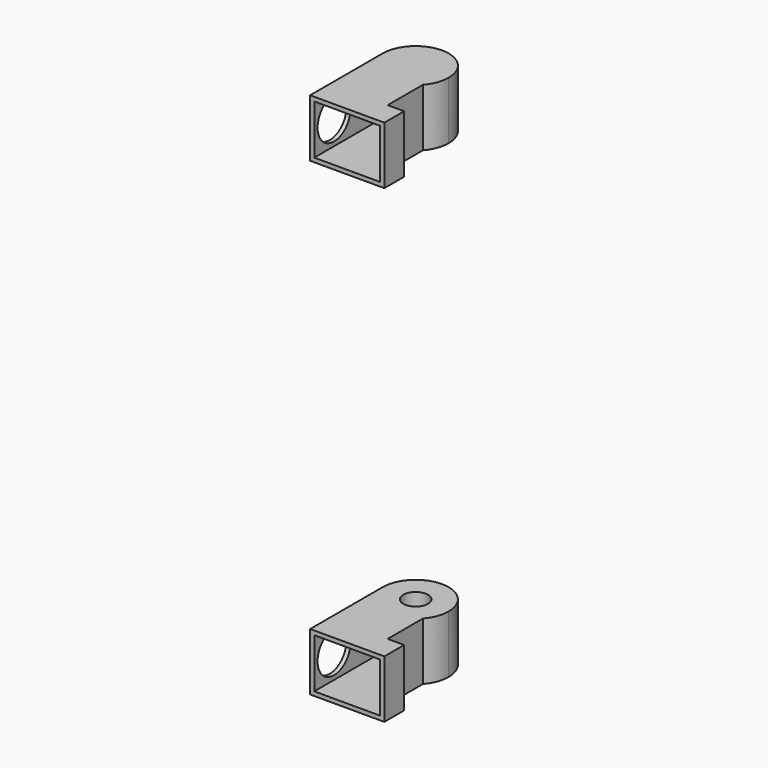
from build123d import *

# Parameters (mm, degrees)
F1_DEPTH = 7
F2_R     = 1.5
F3_DEPTH = 3
F4_T     = -0.5
F5_R     = 2.5
F6_DEPTH = 2


with BuildPart() as f1:
    # F0 (on Top) → F1 (new body)
    with BuildSketch(Plane.XY):
        with BuildLine():
            ThreePointArc((3, 5.3542486889), (-1.4142135624, 4.2583426132), (-4, 8))
            Line((-4, 8), (-4, -3))
            Line((-4, -3), (5, -3))
            Line((5, -3), (5, 0))
            Line((5, 0), (3, 0))
            Line((3, 0), (3, 5.3542486889))
        make_face()
        with BuildLine():
            ThreePointArc((4, 8), (0, 12), (-4, 8))
            ThreePointArc((-4, 8), (-1.4142135624, 4.2583426132), (3, 5.3542486889))
            ThreePointArc((3, 5.3542486889), (3.7416573868, 6.5857864376), (4, 8))
        make_face()
    extrude(amount=F1_DEPTH)

    # F2 (on face) → F3 (cut)
    with BuildSketch(Plane.XY.offset(7)):
        with Locations((0, 8)):
            Circle(F2_R)
    extrude(amount=-F3_DEPTH, mode=Mode.SUBTRACT)

    # F4
    f4_openings = [f1.faces().sort_by_distance(p)[0] for p in [
        (0.5, -3, 3.5),
    ]]
    offset(amount=F4_T, openings=f4_openings, kind=Kind.INTERSECTION)

    # F5 (on face) → F6 (cut)
    with BuildSketch(Plane(origin=(-4, 0, 0), x_dir=(0, -1, 0), z_dir=(-1, 0, 0))):
        with BuildLine():
            ThreePointArc((-8, 1), (-6.232233047, 1.732233047), (-5.5, 3.5))
            ThreePointArc((-5.5, 3.5), (-6.232233047, 5.267766953), (-8, 6))
            Line((-8, 6), (-8, 1))
        make_face()
        with Locations((0, 3.5)):
            Circle(F5_R)
        with BuildLine():
            Line((-8, 1), (-8, 6))
            ThreePointArc((-8, 6), (-10.5, 3.5), (-8, 1))
        make_face()
    extrude(amount=-F6_DEPTH, mode=Mode.SUBTRACT)


with BuildPart() as f8_1:
    # F8: instance of F1
    add(f1.part.mirror(Plane(origin=(-0.0809369199, 3.7263048418, 32), x_dir=(1, 0, 0), z_dir=(0, 0, 1))))


solid = Compound([f1.part, f8_1.part])
